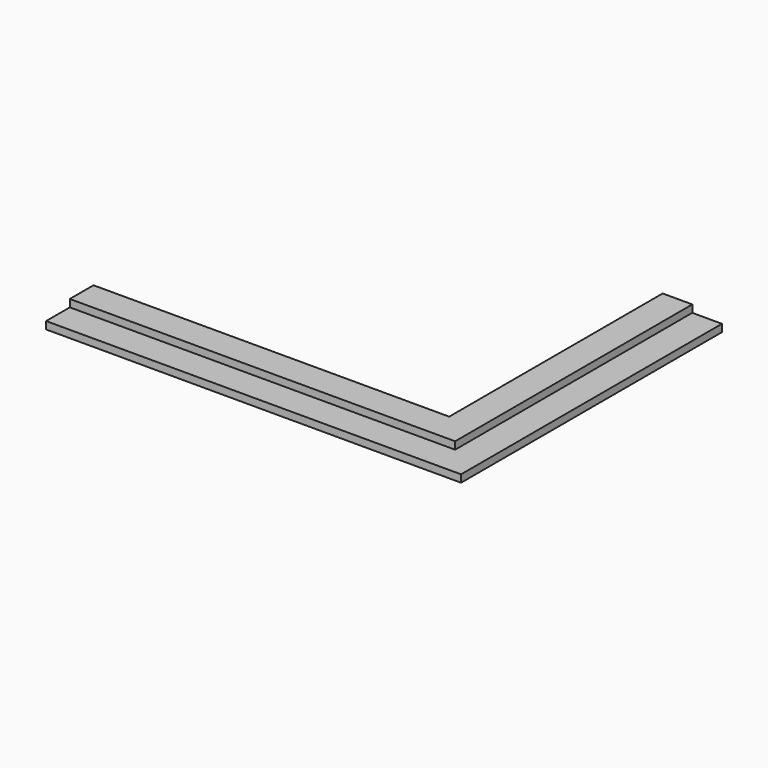
from build123d import *

# Parameters (mm, degrees)
F1_DEPTH = 6.35
F3_DEPTH = 3.175
F5_DEPTH = 3.175


with BuildPart() as f1:
    # F0 (on Top) → F1 (new body)
    with BuildSketch(Plane.XY):
        Polygon((-177.8, 0), (0, 0), (0, 139.7), (-25.4, 139.7), (-25.4, 79.375), (-25.4, 25.4), (-79.375, 25.4), (-177.8, 25.4), align=None)
        Polygon((-79.375, 28.575), (-79.375, 25.4), (-25.4, 25.4), (-25.4, 79.375), (-28.575, 79.375), (-28.575, 28.575), align=None)
    extrude(amount=F1_DEPTH)

    # F2 (on face) → F3 (cut)
    with BuildSketch(Plane.XY.offset(6.35)):
        Polygon((0, 139.7), (-12.7, 139.7), (-12.7, 12.7), (-177.8, 12.7), (-177.8, 0), (-12.7, 0), (0, 0), (0, 12.7), align=None)
    extrude(amount=-F3_DEPTH, mode=Mode.SUBTRACT)

    # F4 (on face) → F5 (cut)
    with BuildSketch(Plane.XY.offset(6.35)):
        Polygon((-28.575, 28.575), (-79.375, 28.575), (-79.375, 25.4), (-25.4, 25.4), (-25.4, 79.375), (-28.575, 79.375), align=None)
    extrude(amount=-F5_DEPTH, mode=Mode.SUBTRACT)


solid = f1.part
